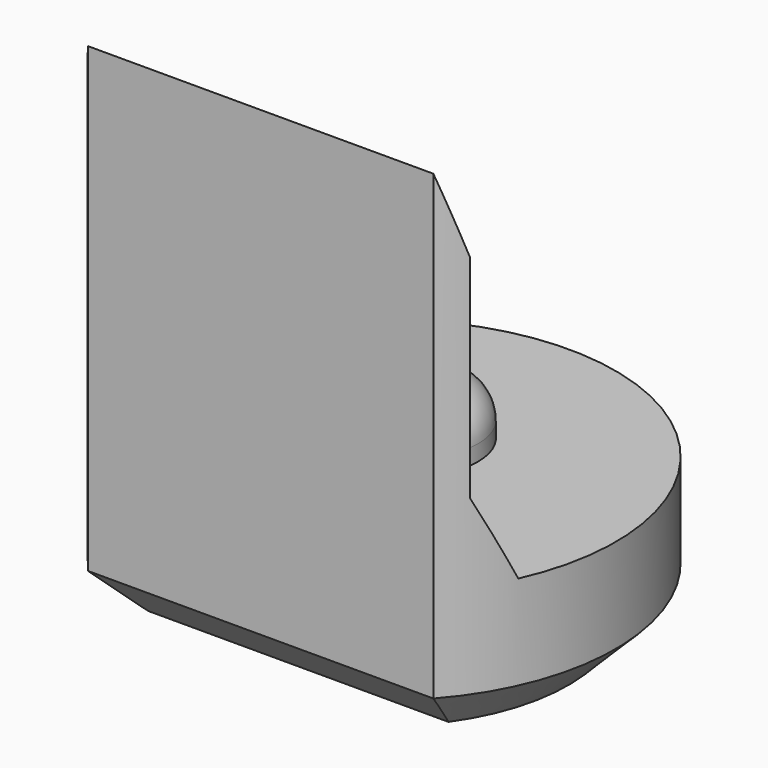
from build123d import *

# Parameters (mm, degrees)
PAD003_DEPTH         = 6.5
POCKET004_DEPTH      = 2.951
POCKET004_DEPTH_BACK = 2.951
SKETCH013_R          = 0.8
PAD006_DEPTH         = 0.7
FILLET_R             = 0.5
CHAMFER004_SIZE      = 0.6


with BuildPart() as part:
    # Sketch004 → Pad003 (new body)
    with BuildSketch(Plane.XY):
        with BuildLine():
            ThreePointArc((2.2, -1.9653244007), (0, 2.95), (-2.2, -1.9653244007))
            Line((-2.2, -1.9653244007), (2.2, -1.9653244007))
        make_face()
    extrude(amount=PAD003_DEPTH)

    # Sketch014 → Pocket004 (cut, two sides)
    with BuildSketch(Plane.YZ) as pocket004_sk:
        Polygon((-1.97, 6.5), (-1.67, 5.5), (-1.67, 2.8), (-1.22, 1.8), (4, 1.8), (4, 6.5), align=None)
    extrude(amount=-POCKET004_DEPTH, mode=Mode.SUBTRACT)
    extrude(pocket004_sk.sketch, amount=POCKET004_DEPTH_BACK, mode=Mode.SUBTRACT)

    # Sketch013 (on Face7 of Pocket004) → Pad006 (join)
    with BuildSketch(Plane.XY.offset(1.8)):
        with Locations((0, 0.5)):
            Circle(SKETCH013_R)
    extrude(amount=PAD006_DEPTH)

    # Fillet
    fillet_edges = [part.edges().sort_by_distance(p)[0] for p in [
        (-0.8, 0.5, 2.5),
    ]]
    fillet(fillet_edges, radius=FILLET_R)

    # Chamfer004
    chamfer004_edges = [part.edges().sort_by_distance(p)[0] for p in [
        (0, 2.95, 0),
        (0, -1.965324, 0),
    ]]
    chamfer(chamfer004_edges, length=CHAMFER004_SIZE)


with BuildPart() as part_1:
    # Body024 placement: moved
    add(part.part.moved(Location((0, 30, 0))))


solid = part_1.part
